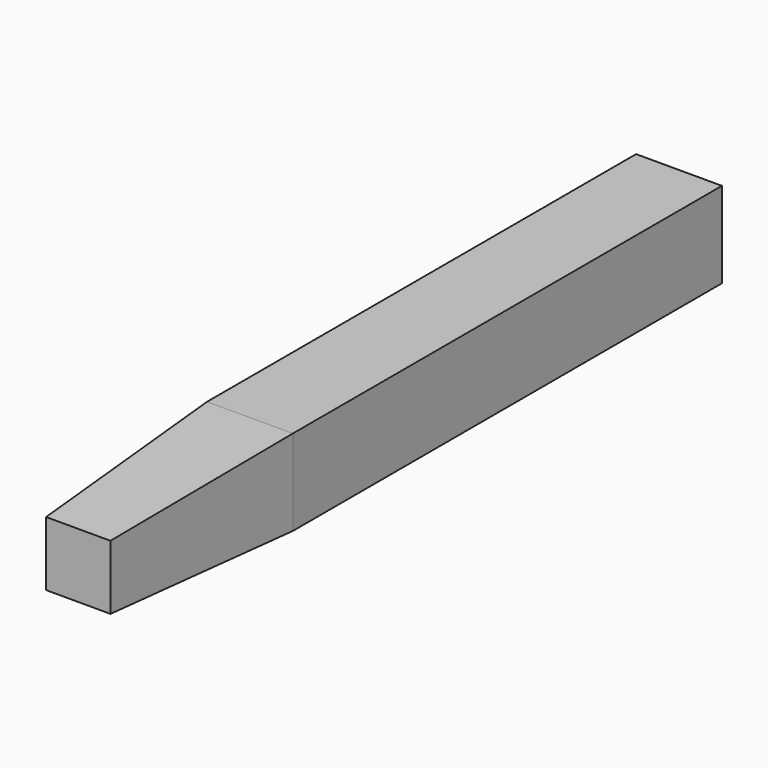
from build123d import *

# Parameters (mm, degrees)
F0_W      = 0.8
F0_H      = 0.8
F1_DEPTH  = 5
F1_FACE_W = 0.8
F1_FACE_H = 0.8
F3_W      = 0.6
F3_H      = 0.6


with BuildPart() as f1:
    # F0 (on Front) → F1 (new body)
    with BuildSketch(Plane.XZ):
        Rectangle(F0_W, F0_H)
    extrude(amount=F1_DEPTH)

    # F1_face (on face) → F4 section 0
    with BuildSketch(Plane.XZ.offset(5)):
        Rectangle(F1_FACE_W, F1_FACE_H)
    # F3 (on offset) → F4 section 1
    with BuildSketch(Plane.XZ.offset(7)):
        Rectangle(F3_W, F3_H)
    loft()


solid = f1.part
